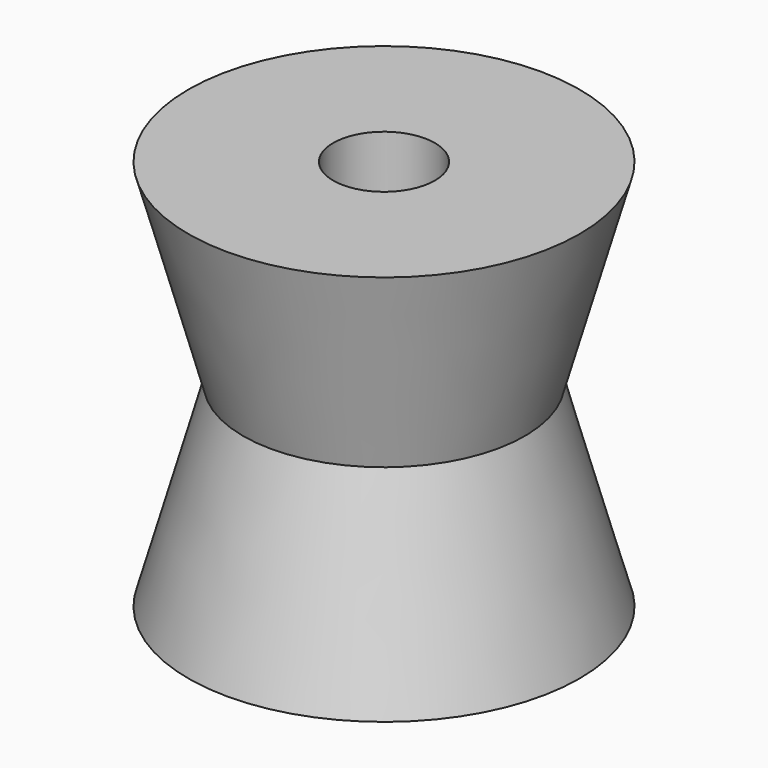
from build123d import *

# Parameters (mm, degrees)
F2_R     = 6.5
F3_DEPTH = 50.001


with BuildPart() as f1:
    # F0 (on Right) → F1 (revolve)
    with BuildSketch(Plane.YZ):
        Polygon((0, 0), (0, 50), (-25, 50), (-18, 25), (-25, 0), align=None)
    revolve(axis=Axis((0, 0, 25), (0, 0, 1)))

    # F2 (on face) → F3 (cut, through all)
    with BuildSketch(Plane.XY.offset(50)):
        Circle(F2_R)
    extrude(amount=-F3_DEPTH, mode=Mode.SUBTRACT)


solid = f1.part
